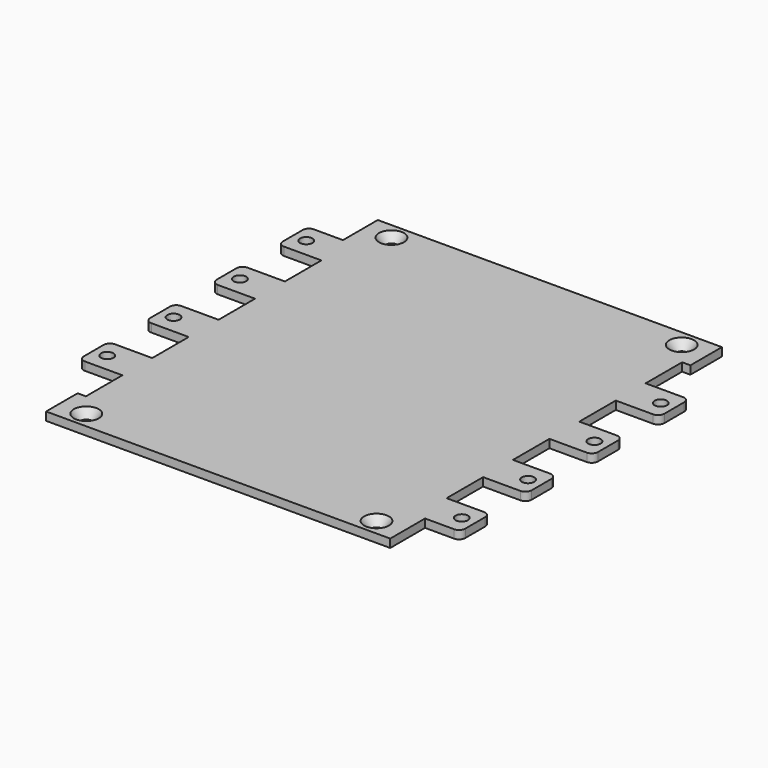
from build123d import *

# Parameters (mm, degrees)
SKETCH008_R         = 1.25
SKETCH009_R         = 3
SKETCH006_R         = 1.25
SKETCH007_R         = 3
SKETCH004_R         = 1.5
SKETCH005_R         = 3
SKETCH002_R         = 1.5
SKETCH003_R         = 3
PAD_DEPTH           = 2
SKETCH001_R         = 1.5
POCKET_DEPTH        = 2.001
LINEARPATTERN_COUNT = 4
LINEARPATTERN_PITCH = 20
FILLET_R            = 1.5


with BuildPart() as loft003:
    # Sketch008 → Loft003 section 0
    with BuildSketch(Plane.XY):
        with Locations((35, -46)):
            Circle(SKETCH008_R)
    # Sketch009 → Loft003 section 1
    with BuildSketch(Plane.XY.offset(2)):
        with Locations((35, -46)):
            Circle(SKETCH009_R)
    loft(ruled=True)


with BuildPart() as loft002:
    # Sketch006 → Loft002 section 0
    with BuildSketch(Plane.XY):
        with Locations((35, 46)):
            Circle(SKETCH006_R)
    # Sketch007 → Loft002 section 1
    with BuildSketch(Plane.XY.offset(2)):
        with Locations((35, 46)):
            Circle(SKETCH007_R)
    loft(ruled=True)


with BuildPart() as loft001:
    # Sketch004 → Loft001 section 0
    with BuildSketch(Plane.XY):
        with Locations((-35, -46)):
            Circle(SKETCH004_R)
    # Sketch005 → Loft001 section 1
    with BuildSketch(Plane.XY.offset(2)):
        with Locations((-35, -46)):
            Circle(SKETCH005_R)
    loft(ruled=True)


with BuildPart() as loft_body:
    # Sketch002 → Loft section 0
    with BuildSketch(Plane.XY):
        with Locations((-35, 46)):
            Circle(SKETCH002_R)
    # Sketch003 → Loft section 1
    with BuildSketch(Plane.XY.offset(2)):
        with Locations((-35, 46)):
            Circle(SKETCH003_R)
    loft(ruled=True)


with BuildPart() as cut003:
    # Sketch → Pad (new body)
    with BuildSketch(Plane.XY):
        Polygon((-41.5, -50), (-41.5, -40.5), (-39.5, -40.5), (-39.5, -29.5), (-50, -29.5), (-50, -20.5), (-39.5, -20.5), (-39.5, -9.5), (-50, -9.5), (-50, -0.5), (-39.5, -0.5), (-39.5, 10.5), (-50, 10.5), (-50, 19.5), (-39.5, 19.5), (-39.5, 30.5), (-50, 30.5), (-50, 39.5), (-41.5, 39.5), (-41.5, 50), (41.5, 50), (41.5, 40.5), (39.5, 40.5), (39.5, 29.5), (50, 29.5), (50, 20.5), (39.5, 20.5), (39.5, 9.5), (50, 9.5), (50, 0.5), (39.5, 0.5), (39.5, -10.5), (50, -10.5), (50, -19.5), (39.5, -19.5), (39.5, -30.5), (50, -30.5), (50, -39.5), (41.5, -39.5), (41.5, -50), align=None)
    extrude(amount=PAD_DEPTH)

    # Sketch001 → Pocket (cut, through all)
    with BuildSketch(Plane.XY.offset(2)):
        with Locations((-46.75, -25)):
            Circle(SKETCH001_R)
        with Locations((46.75, -35)):
            Circle(SKETCH001_R)
    pocket = extrude(amount=-POCKET_DEPTH, mode=Mode.SUBTRACT)

    # LinearPattern: Pocket ×4
    with Locations(*[(0, i * LINEARPATTERN_PITCH, 0) for i in range(1, LINEARPATTERN_COUNT)]):
        add(pocket, mode=Mode.SUBTRACT)

    # Fillet
    fillet_edges = [cut003.edges().sort_by_distance(p)[0] for p in [
        (50, -39.5, 1),
        (-50, -29.5, 1),
        (50, -30.5, 1),
        (-50, -20.5, 1),
        (50, -19.5, 1),
        (-50, -9.5, 1),
        (50, -10.5, 1),
        (-50, -0.5, 1),
        (50, 0.5, 1),
        (-50, 10.5, 1),
        (50, 9.5, 1),
        (-50, 19.5, 1),
        (50, 20.5, 1),
        (-50, 30.5, 1),
        (50, 29.5, 1),
        (-50, 39.5, 1),
    ]]
    fillet(fillet_edges, radius=FILLET_R)

    # Cut: cut Loft body
    add(loft_body.part, mode=Mode.SUBTRACT)

    # Cut001: cut Loft001
    add(loft001.part, mode=Mode.SUBTRACT)

    # Cut002: cut Loft002
    add(loft002.part, mode=Mode.SUBTRACT)

    # Cut003: cut Loft003
    add(loft003.part, mode=Mode.SUBTRACT)


solid = cut003.part
